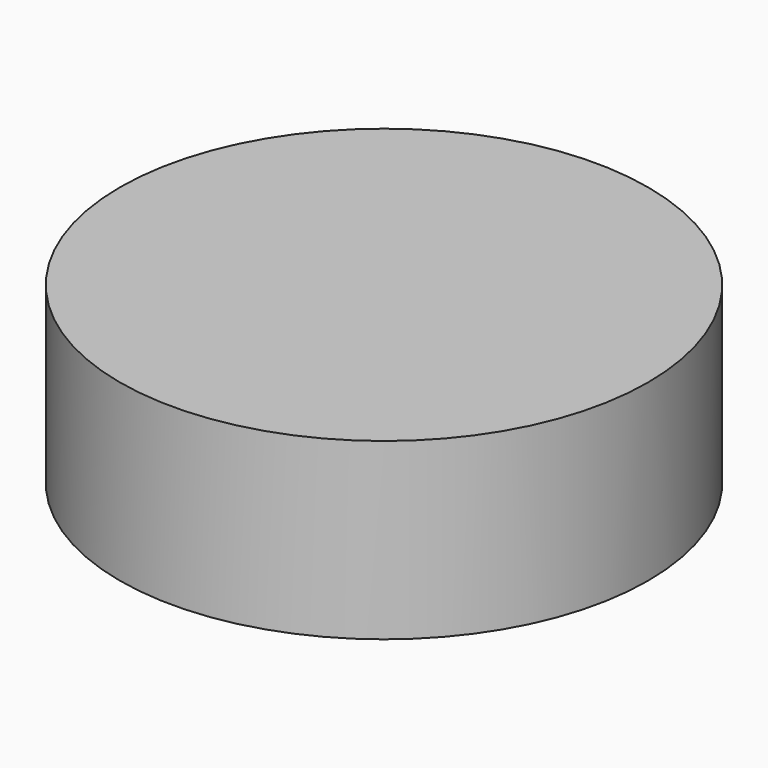
from build123d import *

# Parameters (mm, degrees)
F0_R     = 38.424222
F1_DEPTH = 25.4


with BuildPart() as f1:
    # F0 (on Top) → F1 (new body)
    with BuildSketch(Plane.XY):
        with Locations((-27.143432, 15.938876)):
            Circle(F0_R)
    extrude(amount=-F1_DEPTH)


solid = f1.part
